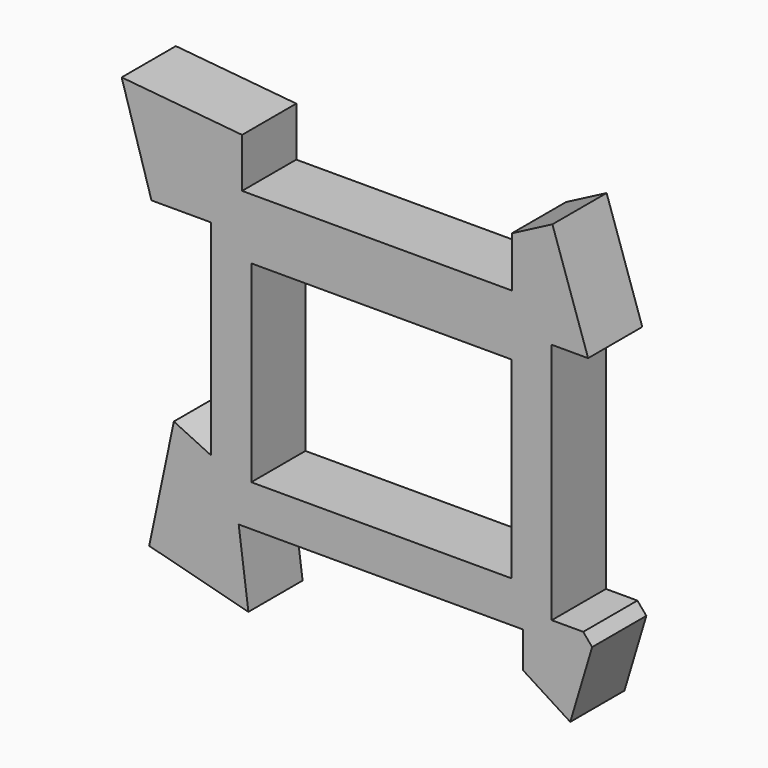
from build123d import *

# Parameters (mm, degrees)
F1_DEPTH = 7


with BuildPart() as f1:
    # F0 (on Front) → F1 (new body)
    with BuildSketch(Plane.XZ):
        Polygon((13.480433, 15.230299), (0, 15.230299), (-14.4018, 15.230299), (-14.4018, 20.327233), (-26.8478, 21.512566), (-23.765933, 11.318699), (-17.6022, 11.318699), (-17.6022, -9.879558), (-21.452855, -8.042291), (-24.001321, -20.191958), (-13.748187, -22.858959), (-14.755721, -15.232768), (0, -15.232768), (14.653853, -15.232768), (14.653853, -18.953877), (19.515166, -22.05506), (21.778191, -14.511641), (20.856217, -13.422038), (17.6022, -13.422038), (17.6022, 11.638863), (21.359112, 11.638863), (17.67122, 22.618724), (13.480433, 20.439515), align=None)
        Polygon((-13.453534, 8.948033), (0, 8.948033), (13.453534, 8.948033), (13.453534, -10.965568), (0, -10.965568), (-13.453534, -10.965568), align=None, mode=Mode.SUBTRACT)
    extrude(amount=F1_DEPTH)


solid = f1.part
